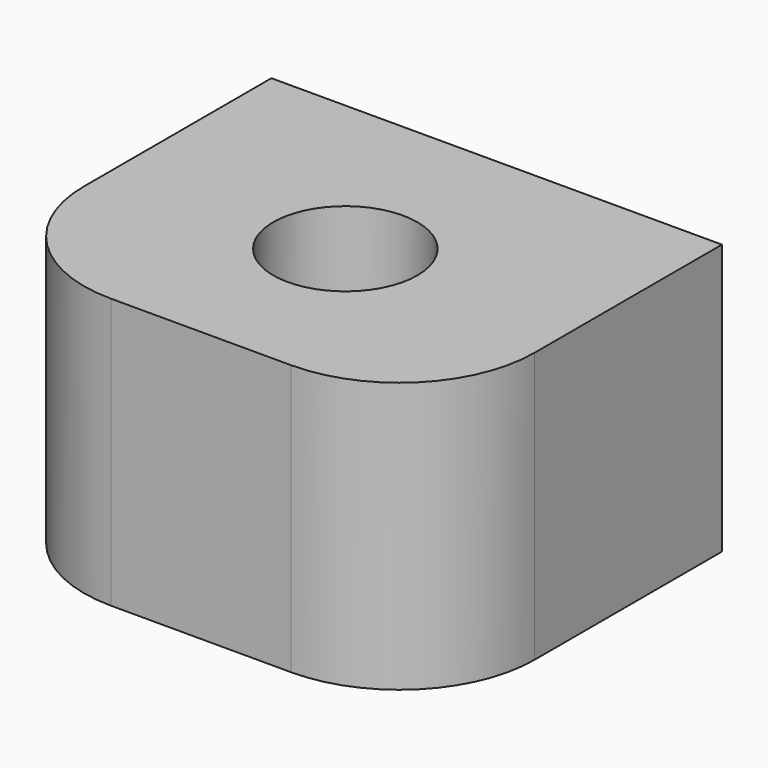
from build123d import *

# Parameters (mm, degrees)
CYLINDER_R     = 1.6
CYLINDER_DEPTH = 6
BOX_W          = 10
BOX_H          = 8.2
BOX_DEPTH      = 6
FILLET_R       = 3


with BuildPart() as obj1:
    # Cylinder → Cylinder (new body)
    with BuildSketch(Plane(origin=(5, 4, 0), x_dir=(1, 0, 0), z_dir=(0, 0, 1))):
        Circle(CYLINDER_R)
    extrude(amount=CYLINDER_DEPTH)


with BuildPart() as clampfillet:
    # Box → Box (new body)
    with BuildSketch(Plane.XY):
        with Locations((5, 4.1)):
            Rectangle(BOX_W, BOX_H)
    extrude(amount=BOX_DEPTH)

    # Cut: cut obj1
    add(obj1.part, mode=Mode.SUBTRACT)

    # Fillet
    fillet_edges = [clampfillet.edges().sort_by_distance(p)[0] for p in [
        (0, 0, 3),
        (10, 0, 3),
    ]]
    fillet(fillet_edges, radius=FILLET_R)


solid = clampfillet.part
